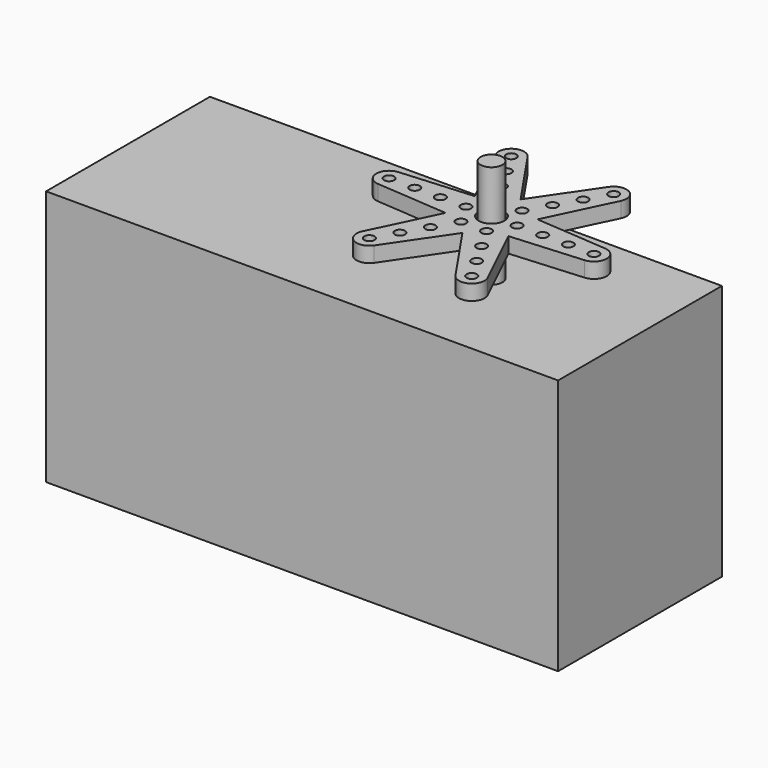
from build123d import *

# Parameters (mm, degrees)
F0_R     = 1
F0_R_2   = 2.5
F1_DEPTH = 3
F2_R     = 2.125
F3_DEPTH = 12.5
F4_W     = 100
F4_H     = 50
F5_DEPTH = 20


with BuildPart() as f1:
    # F0 (on Top) → F1 (new body)
    with BuildSketch(Plane.XY):
        with BuildLine():
            Line((6.146998, -3.548971), (20.1875, -2.492959))
            ThreePointArc((20.1875, -2.492959), (22.5, 0), (20.1875, 2.492959))
            Line((20.1875, 2.492959), (6.146998, 3.548971))
            Line((6.146998, 3.548971), (12.252716, 16.236408))
            ThreePointArc((12.252716, 16.236408), (11.25, 19.485572), (7.934784, 18.729367))
            Line((7.934784, 18.729367), (0, 7.097941))
            Line((0, 7.097941), (-7.934784, 18.729367))
            ThreePointArc((-7.934784, 18.729367), (-11.25, 19.485572), (-12.252716, 16.236408))
            Line((-12.252716, 16.236408), (-6.146998, 3.548971))
            Line((-6.146998, 3.548971), (-20.1875, 2.492959))
            ThreePointArc((-20.1875, 2.492959), (-22.5, 0), (-20.1875, -2.492959))
            Line((-20.1875, -2.492959), (-6.146998, -3.548971))
            Line((-6.146998, -3.548971), (-12.252716, -16.236408))
            ThreePointArc((-12.252716, -16.236408), (-11.25, -19.485572), (-7.934784, -18.729367))
            Line((-7.934784, -18.729367), (0, -7.097941))
            Line((0, -7.097941), (7.934784, -18.729367))
            ThreePointArc((7.934784, -18.729367), (11.25, -19.485572), (12.252716, -16.236408))
            Line((12.252716, -16.236408), (6.146998, -3.548971))
        make_face()
        with Locations((-10, -17.320508)):
            Circle(F0_R, mode=Mode.SUBTRACT)
        with Locations((-7.5, -12.990381)):
            Circle(F0_R, mode=Mode.SUBTRACT)
        with Locations((-5, -8.660254)):
            Circle(F0_R, mode=Mode.SUBTRACT)
        with Locations((-2.5, -4.330127)):
            Circle(F0_R, mode=Mode.SUBTRACT)
        with Locations((10, -17.320508)):
            Circle(F0_R, mode=Mode.SUBTRACT)
        with Locations((7.5, -12.990381)):
            Circle(F0_R, mode=Mode.SUBTRACT)
        with Locations((5, -8.660254)):
            Circle(F0_R, mode=Mode.SUBTRACT)
        with Locations((2.5, -4.330127)):
            Circle(F0_R, mode=Mode.SUBTRACT)
        with Locations((-20, 0)):
            Circle(F0_R, mode=Mode.SUBTRACT)
        with Locations((-15, 0)):
            Circle(F0_R, mode=Mode.SUBTRACT)
        with Locations((-10, 0)):
            Circle(F0_R, mode=Mode.SUBTRACT)
        with Locations((-5, 0)):
            Circle(F0_R, mode=Mode.SUBTRACT)
        with Locations((-2.5, 4.330127)):
            Circle(F0_R, mode=Mode.SUBTRACT)
        with Locations((-5, 8.660254)):
            Circle(F0_R, mode=Mode.SUBTRACT)
        with Locations((-7.5, 12.990381)):
            Circle(F0_R, mode=Mode.SUBTRACT)
        with Locations((-10, 17.320508)):
            Circle(F0_R, mode=Mode.SUBTRACT)
        Circle(F0_R_2, mode=Mode.SUBTRACT)
        with Locations((5, 0)):
            Circle(F0_R, mode=Mode.SUBTRACT)
        with Locations((2.5, 4.330127)):
            Circle(F0_R, mode=Mode.SUBTRACT)
        with Locations((10, 0)):
            Circle(F0_R, mode=Mode.SUBTRACT)
        with Locations((5, 8.660254)):
            Circle(F0_R, mode=Mode.SUBTRACT)
        with Locations((15, 0)):
            Circle(F0_R, mode=Mode.SUBTRACT)
        with Locations((20, 0)):
            Circle(F0_R, mode=Mode.SUBTRACT)
        with Locations((7.5, 12.990381)):
            Circle(F0_R, mode=Mode.SUBTRACT)
        with Locations((10, 17.320508)):
            Circle(F0_R, mode=Mode.SUBTRACT)
    extrude(amount=F1_DEPTH)


with BuildPart() as f3:
    # F2 (on Top) → F3 (new body, symmetric)
    with BuildSketch(Plane.XY):
        Circle(F2_R)
    extrude(amount=F3_DEPTH, both=True)

    # F4 (on Front) → F5 (join, symmetric)
    with BuildSketch(Plane.XZ):
        with Locations((-20.999234, -32.692341)):
            Rectangle(F4_W, F4_H)
    extrude(amount=F5_DEPTH, both=True)


solid = Compound([f1.part, f3.part])
